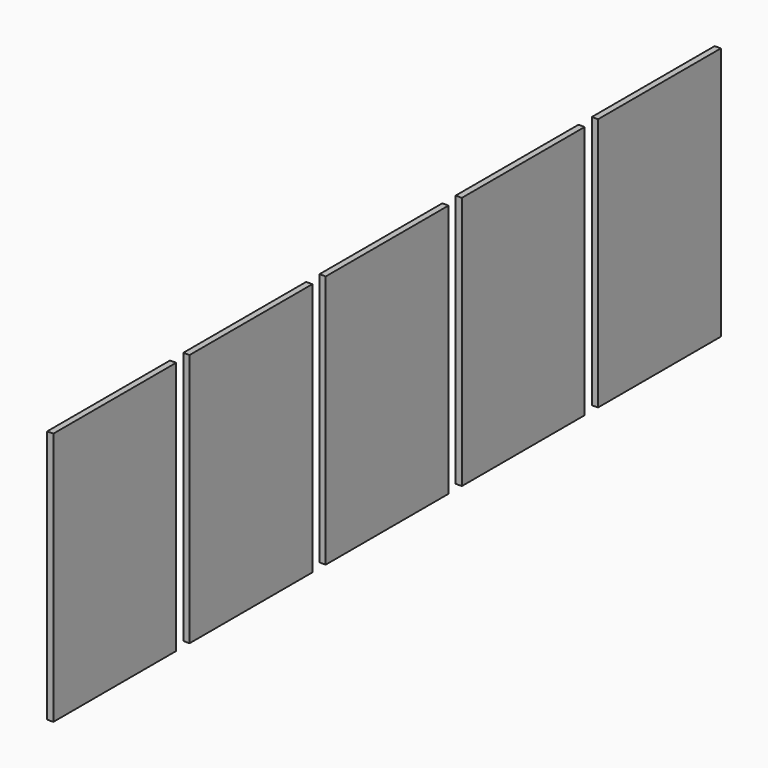
from build123d import *

# Parameters (mm, degrees)
CYLINDER003_R           = 4.5
CYLINDER003_DEPTH       = 10
CYLINDER003_PITCH_ANGLE = 90
CYLINDER002_R           = 4.5
CYLINDER002_DEPTH       = 10
CYLINDER002_PITCH_ANGLE = 90
CYLINDER001_R           = 4.5
CYLINDER001_DEPTH       = 10
CYLINDER001_PITCH_ANGLE = 90
CYLINDER_R              = 4.5
CYLINDER_DEPTH          = 10
CYLINDER_PITCH_ANGLE    = 90
SKETCH002_W             = 970
SKETCH002_H             = 1618
PAD002_DEPTH            = 27
SKETCH001_W             = 922
SKETCH001_H             = 1570
PAD001_DEPTH            = 20
SKETCH_W                = 992
SKETCH_H                = 1640
PAD_DEPTH               = 40
ARRAY_Y_COUNT           = 5
ARRAY_Y_PITCH           = 1100


with BuildPart() as cylinder003:
    # Cylinder003 → Cylinder003 (new body)
    with BuildSketch(Plane.XY):
        Circle(CYLINDER003_R)
    extrude(amount=CYLINDER003_DEPTH)


with BuildPart() as cylinder003_1:
    # Cylinder003 pitch: moved
    add(cylinder003.part.rotate(Axis((0, 0, 0), (0, 1, 0)), CYLINDER003_PITCH_ANGLE))


with BuildPart() as cylinder003_2:
    # Cylinder003 placement: moved
    add(cylinder003_1.part.moved(Location((0, 25, 1220))))


with BuildPart() as fusion001:
    # Cylinder002 → Cylinder002 (new body)
    with BuildSketch(Plane.XY):
        Circle(CYLINDER002_R)
    extrude(amount=CYLINDER002_DEPTH)


with BuildPart() as fusion001_1:
    # Cylinder002 pitch: moved
    add(fusion001.part.rotate(Axis((0, 0, 0), (0, 1, 0)), CYLINDER002_PITCH_ANGLE))


with BuildPart() as fusion001_2:
    # Cylinder002 placement: moved
    add(fusion001_1.part.moved(Location((0, 25, 420))))

    # Fusion001: union Cylinder003
    add(cylinder003_2.part)


with BuildPart() as fusion001_3:
    # Fusion001 placement: moved
    add(fusion001_2.part.moved(Location((0, 942, 0))))


with BuildPart() as cylinder001:
    # Cylinder001 → Cylinder001 (new body)
    with BuildSketch(Plane.XY):
        Circle(CYLINDER001_R)
    extrude(amount=CYLINDER001_DEPTH)


with BuildPart() as cylinder001_1:
    # Cylinder001 pitch: moved
    add(cylinder001.part.rotate(Axis((0, 0, 0), (0, 1, 0)), CYLINDER001_PITCH_ANGLE))


with BuildPart() as cylinder001_2:
    # Cylinder001 placement: moved
    add(cylinder001_1.part.moved(Location((0, 25, 1220))))


with BuildPart() as fusion:
    # Cylinder → Cylinder (new body)
    with BuildSketch(Plane.XY):
        Circle(CYLINDER_R)
    extrude(amount=CYLINDER_DEPTH)


with BuildPart() as fusion_1:
    # Cylinder pitch: moved
    add(fusion.part.rotate(Axis((0, 0, 0), (0, 1, 0)), CYLINDER_PITCH_ANGLE))


with BuildPart() as fusion_2:
    # Cylinder placement: moved
    add(fusion_1.part.moved(Location((0, 25, 420))))

    # Fusion: union Cylinder001
    add(cylinder001_2.part)


with BuildPart() as obj1:
    # Sketch002 → Pad002 (new body)
    with BuildSketch(Plane.YZ.offset(3)):
        with Locations((496, 820)):
            Rectangle(SKETCH002_W, SKETCH002_H)
    extrude(amount=PAD002_DEPTH)


with BuildPart() as obj2:
    # Sketch001 → Pad001 (new body)
    with BuildSketch(Plane.YZ):
        with Locations((496, 820)):
            Rectangle(SKETCH001_W, SKETCH001_H)
    extrude(amount=PAD001_DEPTH)


with BuildPart() as array:
    # Sketch → Pad (new body)
    with BuildSketch(Plane.YZ):
        with Locations((496, 820)):
            Rectangle(SKETCH_W, SKETCH_H)
    extrude(amount=PAD_DEPTH)

    # Cut: cut obj2
    add(obj2.part, mode=Mode.SUBTRACT)

    # Cut001: cut obj1
    add(obj1.part, mode=Mode.SUBTRACT)

    # Cut002: cut Fusion
    add(fusion_2.part, mode=Mode.SUBTRACT)

    # Cut003: cut Fusion001
    add(fusion001_3.part, mode=Mode.SUBTRACT)


with BuildPart() as array_1:
    # Cut003 placement: moved
    add(array.part.moved(Location((0, 0, 1305.59))))

    # Array Y: Array ×5


with BuildPart() as array_2:
    add(array_1.part)
    with Locations(*[(0, i * ARRAY_Y_PITCH, 0) for i in range(1, ARRAY_Y_COUNT)]):
        add(array_1.part)


with BuildPart() as array_3:
    # Array placement: moved
    add(array_2.part.moved(Location((-45, 0, 0))))


solid = array_3.part
